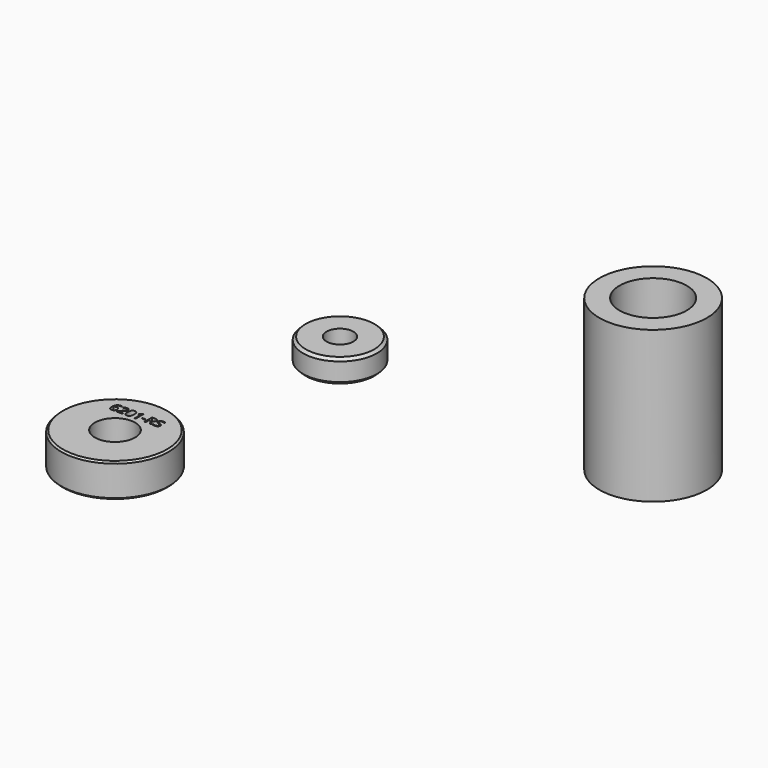
from build123d import *

# Parameters (mm, degrees)
F0_R     = 11
F0_R_2   = 4
F1_DEPTH = 7
F2_SIZE  = 0.8
F3_R     = 16
F3_R_2   = 10
F4_DEPTH = 45
F5_R     = 16
F5_R_2   = 6
F5_W     = 0.9644967934
F5_H     = 0.298654483
F6_DEPTH = 10
F7_SIZE  = 0.5


with BuildPart() as f1:
    # F0 (on Top) → F1 (new body)
    with BuildSketch(Plane.XY):
        with Locations((-54.5200183988, 42.5802879035)):
            Circle(F0_R)
        with Locations((-54.5200183988, 42.5802879035)):
            Circle(F0_R_2, mode=Mode.SUBTRACT)
    extrude(amount=F1_DEPTH)

    # F2
    f2_edges = [f1.edges().sort_by_distance(p)[0] for p in [
        (-65.520018, 42.580288, 7),
        (-65.520018, 42.580288, 0),
    ]]
    chamfer(f2_edges, length=F2_SIZE)


with BuildPart() as f4:
    # F3 (on Top) → F4 (new body)
    with BuildSketch(Plane.XY):
        with Locations((35.7571877539, 46.1327247322)):
            Circle(F3_R)
        with Locations((35.7571877539, 46.1327247322)):
            Circle(F3_R_2, mode=Mode.SUBTRACT)
    extrude(amount=F4_DEPTH)


with BuildPart() as f6:
    # F5 (on Top) → F6 (new body)
    with BuildSketch(Plane.XY):
        with Locations((-62.3610429466, -31.2619321048)):
            Circle(F5_R)
        with BuildLine():
            add(Edge.make_bspline(
                [(-69.9991701309, -23.4991219381), (-70.2604142102, -23.1640001709), (-70.2604142102, -22.566691205)],
                knots=[0, 0, 0, 1, 1, 1], degree=2))
            add(Edge.make_bspline(
                [(-70.2604142102, -22.566691205), (-70.2604142102, -21.7197699659), (-69.9312655327, -21.3003961972)],
                knots=[0, 0, 0, 1, 1, 1], degree=2))
            add(Edge.make_bspline(
                [(-69.9312655327, -21.3003961972), (-69.6021168551, -20.8810224285), (-68.9576519182, -20.8810224285)],
                knots=[0, 0, 0, 1, 1, 1], degree=2))
            add(Edge.make_bspline(
                [(-68.9576519182, -20.8810224285), (-68.7357044814, -20.8810224285), (-68.6080689866, -20.918118459)],
                knots=[0, 0, 0, 1, 1, 1], degree=2))
            Line((-68.6080689866, -20.918118459), (-68.6080689866, -21.1991680462))
            add(Edge.make_bspline(
                [(-68.6080689866, -21.1991680462), (-68.75959684, -21.1501258363), (-68.9538794405, -21.1501258363)],
                knots=[0, 0, 0, 1, 1, 1], degree=2))
            add(Edge.make_bspline(
                [(-68.9538794405, -21.1501258363), (-69.4160079563, -21.1501258363), (-69.6596471397, -21.4377772594)],
                knots=[0, 0, 0, 1, 1, 1], degree=2))
            add(Edge.make_bspline(
                [(-69.6596471397, -21.4377772594), (-69.9032863232, -21.7254286825), (-69.9265499356, -22.3428575293)],
                knots=[0, 0, 0, 1, 1, 1], degree=2))
            Line((-69.9265499356, -22.3428575293), (-69.9032863232, -22.3428575293))
            add(Edge.make_bspline(
                [(-69.9032863232, -22.3428575293), (-69.6869976029, -22.0045920307), (-69.2192103707, -22.0045920307)],
                knots=[0, 0, 0, 1, 1, 1], degree=2))
            add(Edge.make_bspline(
                [(-69.2192103707, -22.0045920307), (-68.8319026622, -22.0045920307), (-68.609012106, -22.2384856469)],
                knots=[0, 0, 0, 1, 1, 1], degree=2))
            add(Edge.make_bspline(
                [(-68.609012106, -22.2384856469), (-68.3861215498, -22.472379263), (-68.3861215498, -22.8728906433)],
                knots=[0, 0, 0, 1, 1, 1], degree=2))
            add(Edge.make_bspline(
                [(-68.3861215498, -22.8728906433), (-68.3861215498, -23.3211867409), (-68.6307038527, -23.5777152231)],
                knots=[0, 0, 0, 1, 1, 1], degree=2))
            add(Edge.make_bspline(
                [(-68.6307038527, -23.5777152231), (-68.8752861555, -23.8342437053), (-69.2921449391, -23.8342437053)],
                knots=[0, 0, 0, 1, 1, 1], degree=2))
            add(Edge.make_bspline(
                [(-69.2921449391, -23.8342437053), (-69.7379260516, -23.8342437053), (-69.9991701309, -23.4991219381)],
                knots=[0, 0, 0, 1, 1, 1], degree=2))
        make_face(mode=Mode.SUBTRACT)
        with BuildLine():
            Line((-66.1050300462, -23.492205729), (-66.1050300462, -23.7946326897))
            Line((-66.1050300462, -23.7946326897), (-67.9931551248, -23.7946326897))
            Line((-67.9931551248, -23.7946326897), (-67.9931551248, -23.5135831025))
            Line((-67.9931551248, -23.5135831025), (-67.2367733501, -22.7534288501))
            add(Edge.make_bspline(
                [(-67.2367733501, -22.7534288501), (-66.8909628961, -22.4032171722), (-66.7809322971, -22.2538899307)],
                knots=[0, 0, 0, 1, 1, 1], degree=2))
            add(Edge.make_bspline(
                [(-66.7809322971, -22.2538899307), (-66.6709016982, -22.1045626892), (-66.6158863987, -21.9630947763)],
                knots=[0, 0, 0, 1, 1, 1], degree=2))
            add(Edge.make_bspline(
                [(-66.6158863987, -21.9630947763), (-66.5608710992, -21.8216268633), (-66.5608710992, -21.6587815768)],
                knots=[0, 0, 0, 1, 1, 1], degree=2))
            add(Edge.make_bspline(
                [(-66.5608710992, -21.6587815768), (-66.5608710992, -21.4286604383), (-66.7004527733, -21.2941087344)],
                knots=[0, 0, 0, 1, 1, 1], degree=2))
            add(Edge.make_bspline(
                [(-66.7004527733, -21.2941087344), (-66.8400344475, -21.1595570305), (-67.0877604817, -21.1595570305)],
                knots=[0, 0, 0, 1, 1, 1], degree=2))
            add(Edge.make_bspline(
                [(-67.0877604817, -21.1595570305), (-67.2663244252, -21.1595570305), (-67.4266547266, -21.2186591808)],
                knots=[0, 0, 0, 1, 1, 1], degree=2))
            add(Edge.make_bspline(
                [(-67.4266547266, -21.2186591808), (-67.586985028, -21.2777613312), (-67.7831538673, -21.4330616623)],
                knots=[0, 0, 0, 1, 1, 1], degree=2))
            Line((-67.7831538673, -21.4330616623), (-67.9560590943, -21.2111142255))
            add(Edge.make_bspline(
                [(-67.9560590943, -21.2111142255), (-67.5593201917, -20.8810224285), (-67.0915329594, -20.8810224285)],
                knots=[0, 0, 0, 1, 1, 1], degree=2))
            add(Edge.make_bspline(
                [(-67.0915329594, -20.8810224285), (-66.6866203552, -20.8810224285), (-66.4568135898, -21.0881943278)],
                knots=[0, 0, 0, 1, 1, 1], degree=2))
            add(Edge.make_bspline(
                [(-66.4568135898, -21.0881943278), (-66.2270068245, -21.295366227), (-66.2270068245, -21.6449491586)],
                knots=[0, 0, 0, 1, 1, 1], degree=2))
            add(Edge.make_bspline(
                [(-66.2270068245, -21.6449491586), (-66.2270068245, -21.9184537904), (-66.3804209168, -22.1856709594)],
                knots=[0, 0, 0, 1, 1, 1], degree=2))
            add(Edge.make_bspline(
                [(-66.3804209168, -22.1856709594), (-66.5338350091, -22.4528881283), (-66.9538375241, -22.8615732103)],
                knots=[0, 0, 0, 1, 1, 1], degree=2))
            Line((-66.9538375241, -22.8615732103), (-67.582583804, -23.476487072))
            Line((-67.582583804, -23.476487072), (-67.582583804, -23.492205729))
            Line((-67.582583804, -23.492205729), (-66.1050300462, -23.492205729))
        make_face(mode=Mode.SUBTRACT)
        with BuildLine():
            add(Edge.make_bspline(
                [(-64.0314248151, -21.2560695845), (-63.788728751, -21.6355179644), (-63.788728751, -22.3541749624)],
                knots=[0, 0, 0, 1, 1, 1], degree=2))
            add(Edge.make_bspline(
                [(-63.788728751, -22.3541749624), (-63.788728751, -23.0992393041), (-64.0235654866, -23.4667415047)],
                knots=[0, 0, 0, 1, 1, 1], degree=2))
            add(Edge.make_bspline(
                [(-64.0235654866, -23.4667415047), (-64.2584022221, -23.8342437053), (-64.7419081114, -23.8342437053)],
                knots=[0, 0, 0, 1, 1, 1], degree=2))
            add(Edge.make_bspline(
                [(-64.7419081114, -23.8342437053), (-65.2052941197, -23.8342437053), (-65.4470470643, -23.4579390568)],
                knots=[0, 0, 0, 1, 1, 1], degree=2))
            add(Edge.make_bspline(
                [(-65.4470470643, -23.4579390568), (-65.6888000089, -23.0816344082), (-65.6888000089, -22.3541749624)],
                knots=[0, 0, 0, 1, 1, 1], degree=2))
            add(Edge.make_bspline(
                [(-65.6888000089, -22.3541749624), (-65.6888000089, -21.6040806504), (-65.4549063928, -21.2403509275)],
                knots=[0, 0, 0, 1, 1, 1], degree=2))
            add(Edge.make_bspline(
                [(-65.4549063928, -21.2403509275), (-65.2210127767, -20.8766212046), (-64.7419081114, -20.8766212046)],
                knots=[0, 0, 0, 1, 1, 1], degree=2))
            add(Edge.make_bspline(
                [(-64.7419081114, -20.8766212046), (-64.2741208791, -20.8766212046), (-64.0314248151, -21.2560695845)],
                knots=[0, 0, 0, 1, 1, 1], degree=2))
        make_face(mode=Mode.SUBTRACT)
        with BuildLine():
            Line((-62.1841682447, -20.9218909367), (-62.1841682447, -23.7946326897))
            Line((-62.1841682447, -23.7946326897), (-62.5023138623, -23.7946326897))
            Line((-62.5023138623, -23.7946326897), (-62.5023138623, -21.7474348022))
            add(Edge.make_bspline(
                [(-62.5023138623, -21.7474348022), (-62.5023138623, -21.4915350663), (-62.4865952053, -21.263928913)],
                knots=[0, 0, 0, 1, 1, 1], degree=2))
            add(Edge.make_bspline(
                [(-62.4865952053, -21.263928913), (-62.5274637135, -21.3054261675), (-62.5787065353, -21.3503815265)],
                knots=[0, 0, 0, 1, 1, 1], degree=2))
            add(Edge.make_bspline(
                [(-62.5787065353, -21.3503815265), (-62.6299493571, -21.3953368855), (-63.0461793944, -21.7336023841)],
                knots=[0, 0, 0, 1, 1, 1], degree=2))
            Line((-63.0461793944, -21.7336023841), (-63.2190846214, -21.5097687084))
            Line((-63.2190846214, -21.5097687084), (-62.458930369, -20.9218909367))
            Line((-62.458930369, -20.9218909367), (-62.1841682447, -20.9218909367))
        make_face(mode=Mode.SUBTRACT)
        with Locations((-62.3610429466, -31.2619321048)):
            Circle(F5_R_2, mode=Mode.SUBTRACT)
        with Locations((-60.6405961275, -22.7160184465)):
            Rectangle(F5_W, F5_H, mode=Mode.SUBTRACT)
        with BuildLine():
            Line((-58.665075316, -22.6000147578), (-59.264899267, -22.6000147578))
            Line((-59.264899267, -22.6000147578), (-59.264899267, -23.7946326897))
            Line((-59.264899267, -23.7946326897), (-59.5987635416, -23.7946326897))
            Line((-59.5987635416, -23.7946326897), (-59.5987635416, -20.9218909367))
            Line((-59.5987635416, -20.9218909367), (-58.8109444529, -20.9218909367))
            add(Edge.make_bspline(
                [(-58.8109444529, -20.9218909367), (-58.2821688315, -20.9218909367), (-58.0297272001, -21.1243472389)],
                knots=[0, 0, 0, 1, 1, 1], degree=2))
            add(Edge.make_bspline(
                [(-58.0297272001, -21.1243472389), (-57.7772855687, -21.326803541), (-57.7772855687, -21.7336023841)],
                knots=[0, 0, 0, 1, 1, 1], degree=2))
            add(Edge.make_bspline(
                [(-57.7772855687, -21.7336023841), (-57.7772855687, -22.3032465137), (-58.3551034, -22.503816577)],
                knots=[0, 0, 0, 1, 1, 1], degree=2))
            Line((-58.3551034, -22.503816577), (-57.5748292666, -23.7946326897))
            Line((-57.5748292666, -23.7946326897), (-57.9696819304, -23.7946326897))
            Line((-57.9696819304, -23.7946326897), (-58.665075316, -22.6000147578))
        make_face(mode=Mode.SUBTRACT)
        with BuildLine():
            add(Edge.make_bspline(
                [(-55.6602968442, -22.550972548), (-55.4905353487, -22.7358239543), (-55.4905353487, -23.0300772133)],
                knots=[0, 0, 0, 1, 1, 1], degree=2))
            add(Edge.make_bspline(
                [(-55.4905353487, -23.0300772133), (-55.4905353487, -23.4092112201), (-55.7656118461, -23.6217274627)],
                knots=[0, 0, 0, 1, 1, 1], degree=2))
            add(Edge.make_bspline(
                [(-55.7656118461, -23.6217274627), (-56.0406883436, -23.8342437053), (-56.5122480535, -23.8342437053)],
                knots=[0, 0, 0, 1, 1, 1], degree=2))
            add(Edge.make_bspline(
                [(-56.5122480535, -23.8342437053), (-57.0227900328, -23.8342437053), (-57.2981809034, -23.7022069865)],
                knots=[0, 0, 0, 1, 1, 1], degree=2))
            Line((-57.2981809034, -23.7022069865), (-57.2981809034, -23.3802888912))
            add(Edge.make_bspline(
                [(-57.2981809034, -23.3802888912), (-57.1208744525, -23.4544809522), (-56.9127594338, -23.4978644455)],
                knots=[0, 0, 0, 1, 1, 1], degree=2))
            add(Edge.make_bspline(
                [(-56.9127594338, -23.4978644455), (-56.7046444152, -23.5412479389), (-56.5003018742, -23.5412479389)],
                knots=[0, 0, 0, 1, 1, 1], degree=2))
            add(Edge.make_bspline(
                [(-56.5003018742, -23.5412479389), (-56.1664375996, -23.5412479389), (-55.9973048503, -23.4145555635)],
                knots=[0, 0, 0, 1, 1, 1], degree=2))
            add(Edge.make_bspline(
                [(-55.9973048503, -23.4145555635), (-55.828172101, -23.287863188), (-55.828172101, -23.0615145273)],
                knots=[0, 0, 0, 1, 1, 1], degree=2))
            add(Edge.make_bspline(
                [(-55.828172101, -23.0615145273), (-55.828172101, -22.9125016589), (-55.8882173707, -22.8172465975)],
                knots=[0, 0, 0, 1, 1, 1], degree=2))
            add(Edge.make_bspline(
                [(-55.8882173707, -22.8172465975), (-55.9482626404, -22.7219915361), (-56.088787434, -22.6411976392)],
                knots=[0, 0, 0, 1, 1, 1], degree=2))
            add(Edge.make_bspline(
                [(-56.088787434, -22.6411976392), (-56.2293122276, -22.5604037422), (-56.5160205312, -22.4585468448)],
                knots=[0, 0, 0, 1, 1, 1], degree=2))
            add(Edge.make_bspline(
                [(-56.5160205312, -22.4585468448), (-56.9165319115, -22.315192693), (-57.0884940191, -22.1187094805)],
                knots=[0, 0, 0, 1, 1, 1], degree=2))
            add(Edge.make_bspline(
                [(-57.0884940191, -22.1187094805), (-57.2604561266, -21.9222262681), (-57.2604561266, -21.6059668893)],
                knots=[0, 0, 0, 1, 1, 1], degree=2))
            add(Edge.make_bspline(
                [(-57.2604561266, -21.6059668893), (-57.2604561266, -21.2739888535), (-57.0111582266, -21.077505641)],
                knots=[0, 0, 0, 1, 1, 1], degree=2))
            add(Edge.make_bspline(
                [(-57.0111582266, -21.077505641), (-56.7618603266, -20.8810224285), (-56.3506602596, -20.8810224285)],
                knots=[0, 0, 0, 1, 1, 1], degree=2))
            add(Edge.make_bspline(
                [(-56.3506602596, -20.8810224285), (-55.922484043, -20.8810224285), (-55.5628411708, -21.0382089985)],
                knots=[0, 0, 0, 1, 1, 1], degree=2))
            Line((-55.5628411708, -21.0382089985), (-55.6672130533, -21.3286897798))
            add(Edge.make_bspline(
                [(-55.6672130533, -21.3286897798), (-56.0230834477, -21.1796769115), (-56.3588339612, -21.1796769115)],
                knots=[0, 0, 0, 1, 1, 1], degree=2))
            add(Edge.make_bspline(
                [(-56.3588339612, -21.1796769115), (-56.6241648913, -21.1796769115), (-56.7734921328, -21.2934799881)],
                knots=[0, 0, 0, 1, 1, 1], degree=2))
            add(Edge.make_bspline(
                [(-56.7734921328, -21.2934799881), (-56.9228193743, -21.4072830648), (-56.9228193743, -21.6097393669)],
                knots=[0, 0, 0, 1, 1, 1], degree=2))
            add(Edge.make_bspline(
                [(-56.9228193743, -21.6097393669), (-56.9228193743, -21.7587522353), (-56.8678040748, -21.8543216698)],
                knots=[0, 0, 0, 1, 1, 1], degree=2))
            add(Edge.make_bspline(
                [(-56.8678040748, -21.8543216698), (-56.8127887753, -21.9498911044), (-56.6820095491, -22.0294275088)],
                knots=[0, 0, 0, 1, 1, 1], degree=2))
            add(Edge.make_bspline(
                [(-56.6820095491, -22.0294275088), (-56.5512303229, -22.1089639132), (-56.2821269151, -22.205162094)],
                knots=[0, 0, 0, 1, 1, 1], degree=2))
            add(Edge.make_bspline(
                [(-56.2821269151, -22.205162094), (-55.8300583398, -22.3661211417), (-55.6602968442, -22.550972548)],
                knots=[0, 0, 0, 1, 1, 1], degree=2))
        make_face(mode=Mode.SUBTRACT)
    extrude(amount=F6_DEPTH)

    # F7
    f7_edges = [f6.edges().sort_by_distance(p)[0] for p in [
        (-78.361043, -31.261932, 10),
        (-78.361043, -31.261932, 0),
    ]]
    chamfer(f7_edges, length=F7_SIZE)


solid = Compound([f1.part, f4.part, f6.part])
